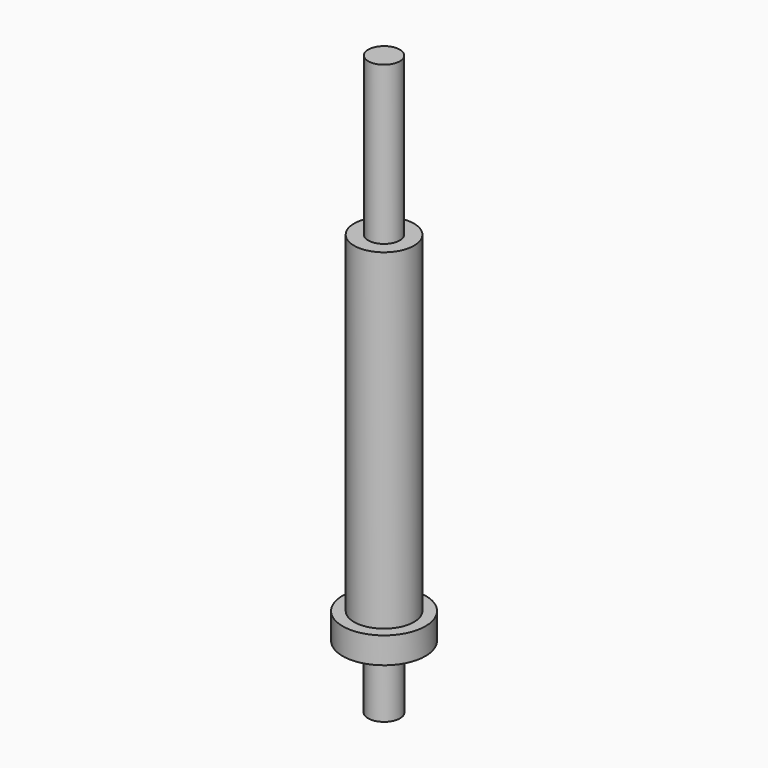
from build123d import *

# Parameters (mm, degrees)
F0_R     = 5.7
F1_DEPTH = 63
F2_R     = 3
F3_DEPTH = 30
F4_R     = 7.876213
F5_DEPTH = 5
F6_R     = 3.031445
F7_DEPTH = 12


with BuildPart() as f1:
    # F0 (on Top) → F1 (new body)
    with BuildSketch(Plane.XY):
        Circle(F0_R)
    extrude(amount=F1_DEPTH)

    # F2 (on face) → F3 (join)
    with BuildSketch(Plane.XY.offset(63)):
        Circle(F2_R)
    extrude(amount=F3_DEPTH)


with BuildPart() as f5:
    # F4 (on face) → F5 (new body)
    with BuildSketch(Plane(origin=(0, 0, 0), x_dir=(1, 0, 0), z_dir=(0, 0, -1))):
        Circle(F4_R)
    extrude(amount=F5_DEPTH)

    # F6 (on face) → F7 (join)
    with BuildSketch(Plane(origin=(0, 0, -5), x_dir=(1, 0, 0), z_dir=(0, 0, -1))):
        Circle(F6_R)
    extrude(amount=F7_DEPTH)


solid = Compound([f1.part, f5.part])
